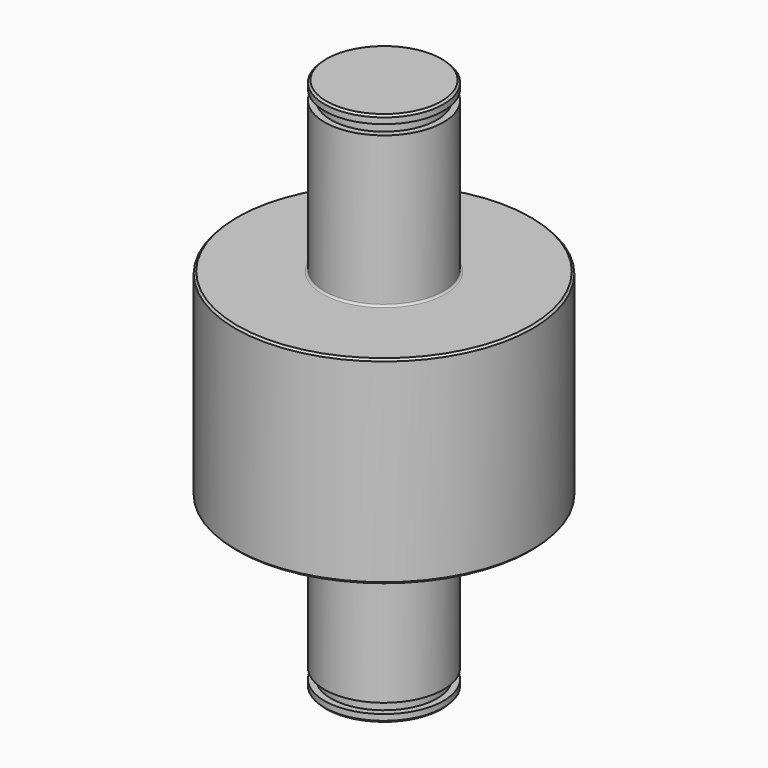
from build123d import *

# Parameters (mm, degrees)
F2_SIZE = 0.2
F3_W    = 0.65
F3_H    = 1
F5_R    = 0.2


with BuildPart() as f1:
    # F0 (on Front) → F1 (revolve)
    with BuildSketch(Plane.XZ):
        Polygon((0, -27), (0, 27), (-6, 27), (-6, 10), (-15, 10), (-15, -10), (-6, -10), (-6, -27), align=None)
    revolve(axis=Axis((0, 0, 3.962264), (0, 0, -1)))

    # F2
    f2_edges = [f1.edges().sort_by_distance(p)[0] for p in [
        (6, 0, 27),
        (15, 0, 10),
        (15, 0, -10),
        (6, 0, -27),
    ]]
    chamfer(f2_edges, length=F2_SIZE)

    # F3 (on Front) → F4 (revolve, cut)
    with BuildSketch(Plane.XZ):
        with Locations((-5.675, 25.7)):
            Rectangle(F3_W, F3_H)
        with Locations((-5.675, -25.7)):
            Rectangle(F3_W, F3_H)
    revolve(axis=Axis((0, 0, -1.776566), (0, 0, -1)), mode=Mode.SUBTRACT)

    # F5
    f5_edges = [f1.edges().sort_by_distance(p)[0] for p in [
        (6, 0, 10),
        (6, 0, -10),
    ]]
    fillet(f5_edges, radius=F5_R)


solid = f1.part
